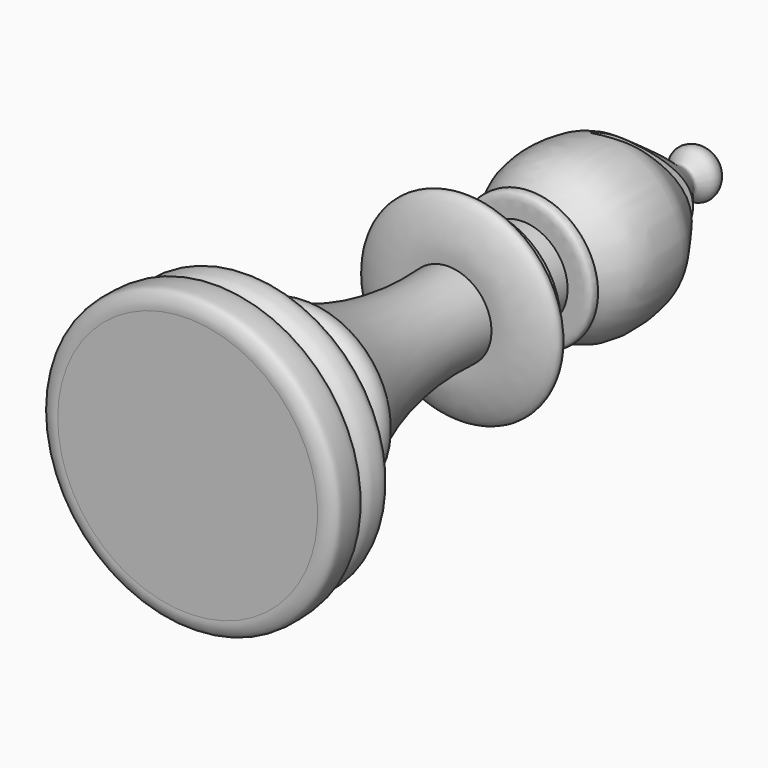
from build123d import *

# Parameters (mm, degrees)
F4_DEPTH = 99.568


with BuildPart() as f1:
    # F0 (on Top) → F1 (revolve)
    with BuildSketch(Plane.XY):
        with BuildLine():
            Line((6.718324963, -45.3110821545), (6.718324963, 66.5925070643))
            add(Edge.make_bspline(
                [(-3.075561719, 29.3718278408), (-3.6366837564, 29.8330968928), (-5.0297275857, 30.9782452986), (-7.9349505475, 35.4321404968), (-7.055081121, 44.4825491674), (-5.3665072757, 47.1342989395), (-0.9474489311, 53.2739522243), (1.765674232, 56.8754221882), (3.7819566734, 59.1227906342), (4.798990968, 60.760848812), (3.1383792832, 61.6605394175), (2.3811546811, 63.0980982756), (3.0261030487, 64.8616324037), (4.7434168455, 66.2948172598), (6.0698285983, 66.4947552984), (6.718324963, 66.5925070643)],
                knots=[0, 0, 0, 0, 0.06654947, 0.1652159821, 0.2923768135, 0.372020507, 0.4893749074, 0.5842277611, 0.6591837801, 0.7116024383, 0.7653270268, 0.8187341748, 0.8755410065, 0.9391507165, 1, 1, 1, 1], degree=3))
            add(Edge.make_bspline(
                [(-0.976243231, 26.4876671135), (-1.5623373909, 26.5003440459), (-2.6616121177, 26.5241208249), (-3.9961101149, 26.3752236914), (-4.7623386395, 26.7831954999), (-4.995946144, 27.3325552262), (-4.9552196279, 28.6547594795), (-3.3519771165, 28.3063191279), (-3.0200885426, 28.8530912868), (-3.0570430391, 29.1986573678), (-3.075561719, 29.3718278408)],
                knots=[0, 0, 0, 0, 0.171544697, 0.3217482153, 0.435482199, 0.5359953915, 0.6652093282, 0.8141122361, 0.9068477094, 1, 1, 1, 1], degree=3))
            Line((-0.976243231, 26.4876671135), (-0.976243231, 19.0403666347))
            add(Edge.make_bspline(
                [(-0.6511239335, 10.5735398829), (-1.70064651, 10.4958269634), (-4.0101867748, 10.3248148092), (-8.6322104203, 11.623533718), (-10.6053378229, 13.0663422849), (-9.9919905144, 14.5391466838), (-8.9916642837, 15.1249520152), (-7.4563152442, 16.1722506056), (-6.3389726532, 16.0860453996), (-6.464965844, 17.3730436779), (-6.5770365539, 18.0108769238), (-5.8442132246, 19.0442146152), (-4.0624098697, 19.1475912198), (-2.5388016575, 18.924947251), (-1.4084215712, 18.9230392284), (-1.095850509, 19.0078957531), (-0.976243231, 19.0403666347)],
                knots=[0, 0, 0, 0, 0.1074282706, 0.2364026484, 0.3204952469, 0.3846141337, 0.4488856773, 0.5284636499, 0.5826367382, 0.6416950405, 0.6898624016, 0.7500630794, 0.82670538, 0.9014552689, 0.9622912404, 1, 1, 1, 1], degree=3))
            ThreePointArc((-0.6511239335, 10.5735398829), (-1.7151643364, -4.5860031621), (-6.543582771, -18.995385617))
            ThreePointArc((-6.543582771, -18.995385617), (-8.3226798967, -21.2305883327), (-7.0681497455, -23.7971954048))
            add(Edge.make_bspline(
                [(-15.5472261831, -45.3110821545), (-15.8703453925, -45.3460609404), (-16.5925502413, -45.4242421443), (-18.2019609716, -44.7682278739), (-18.6423596594, -43.6156878212), (-18.5114596977, -41.4237139716), (-18.5002843821, -40.0095745093), (-18.0231772007, -38.9501973679), (-16.9764708794, -38.5196883122), (-16.0859584077, -38.4709146678), (-16.1200211276, -37.929966565), (-16.0651553936, -37.0935073779), (-16.8045617862, -36.3279019251), (-17.1568165365, -35.5377745532), (-17.3345409508, -34.4611033661), (-17.5379581285, -32.5397567554), (-14.296779687, -30.320727407), (-11.6802666994, -27.9922089237), (-9.8369849766, -25.8245066524), (-8.0477641609, -24.8570119304), (-7.3755305759, -24.129741842), (-7.0681497455, -23.7971954048)],
                knots=[0, 0, 0, 0, 0.0446311862, 0.0997553167, 0.1467127031, 0.2111960344, 0.2639375779, 0.308632107, 0.3548416707, 0.3927694061, 0.4207921121, 0.4601330872, 0.5042175746, 0.5444526815, 0.5896049805, 0.6459260469, 0.7297659419, 0.8139781306, 0.8870257307, 0.9483421753, 1, 1, 1, 1], degree=3))
            Line((-15.5472261831, -45.3110821545), (6.718324963, -45.3110821545))
        make_face()
    revolve(axis=Axis((6.718324963, 10.6407124549, 0), (0, -1, 0)))

    # F3 (on offset) → F4 (cut)
    with BuildSketch(Plane.XY.offset(56.642)):
        with BuildLine():
            Line((15.2690839022, 52.118472755), (12.6903057098, 56.0545027256))
            add(Edge.make_bspline(
                [(12.6903057098, 56.0545027256), (12.3563456877, 55.2782321408), (11.6074102376, 53.5373753879), (9.7188068518, 49.8031045346), (7.2834528934, 46.0603885738), (3.5911323218, 43.2884429742), (7.2179094634, 43.7522608499), (10.8880329901, 45.7114647464), (13.4836523629, 49.5097828882), (14.7119863907, 51.3044988774), (15.2690839022, 52.118472755)],
                knots=[0, 0, 0, 0, 0.108388648, 0.2430713124, 0.3920280691, 0.5063981299, 0.6010879346, 0.7416369519, 0.8828222553, 1, 1, 1, 1], degree=3))
        make_face()
    extrude(amount=-F4_DEPTH, mode=Mode.SUBTRACT)


solid = f1.part
